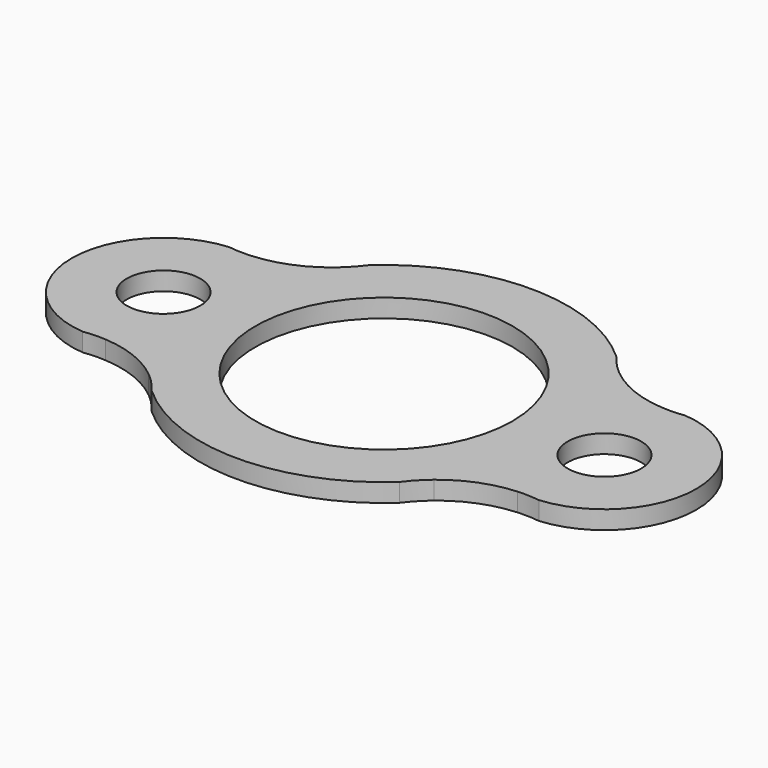
from build123d import *

# Parameters (mm, degrees)
F0_R     = 12.7
F0_R_2   = 44.45
F1_DEPTH = 6.35


with BuildPart() as f1:
    # F0 (on Top) → F1 (new body)
    with BuildSketch(Plane.XY):
        with BuildLine():
            ThreePointArc((-71.195855, -31.353166), (-59.574386, -33.944655), (-49.320371, -39.996888))
            ThreePointArc((-49.320371, -39.996888), (-45.855828, -43.240185), (-42.821363, -46.889027))
            ThreePointArc((-42.821363, -46.889027), (0, -63.5), (42.821363, -46.889027))
            ThreePointArc((42.821363, -46.889027), (45.855828, -43.240185), (49.320371, -39.996888))
            ThreePointArc((49.320371, -39.996888), (59.574386, -33.944655), (71.195855, -31.353166))
            ThreePointArc((71.195855, -31.353166), (75.01577, -31.306005), (78.821206, -31.641615))
            ThreePointArc((78.821206, -31.641615), (107.95, 0), (78.821206, 31.641615))
            ThreePointArc((78.821206, 31.641615), (75.01577, 31.306005), (71.195855, 31.353166))
            ThreePointArc((71.195855, 31.353166), (59.574386, 33.944655), (49.320371, 39.996888))
            ThreePointArc((49.320371, 39.996888), (45.855828, 43.240185), (42.821363, 46.889027))
            ThreePointArc((42.821363, 46.889027), (0, 63.5), (-42.821363, 46.889027))
            ThreePointArc((-42.821363, 46.889027), (-45.855828, 43.240185), (-49.320371, 39.996888))
            ThreePointArc((-49.320371, 39.996888), (-59.574386, 33.944655), (-71.195855, 31.353166))
            ThreePointArc((-71.195855, 31.353166), (-75.01577, 31.306005), (-78.821206, 31.641615))
            ThreePointArc((-78.821206, 31.641615), (-107.95, 0), (-78.821206, -31.641615))
            ThreePointArc((-78.821206, -31.641615), (-75.01577, -31.306005), (-71.195855, -31.353166))
        make_face()
        with Locations((-76.2, 0)):
            Circle(F0_R, mode=Mode.SUBTRACT)
        Circle(F0_R_2, mode=Mode.SUBTRACT)
        with Locations((76.2, 0)):
            Circle(F0_R, mode=Mode.SUBTRACT)
    extrude(amount=F1_DEPTH)


solid = f1.part
